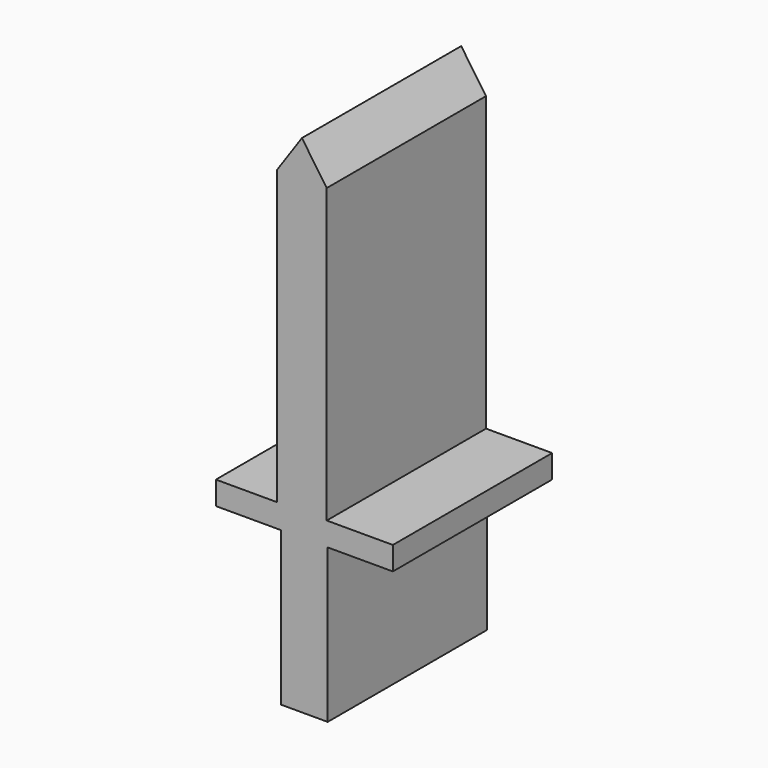
from build123d import *

# Parameters (mm, degrees)
F0_W     = 2.344617017
F0_H     = 7.7176926169
F0_H_2   = 0.5861528073
F1_DEPTH = 10


with BuildPart() as f1:
    # F0 (on Front) → F1 (new body)
    with BuildSketch(Plane.XZ):
        Polygon((0, 4.7380755195), (1.1234623608, 4.7380755195), (1.1234623608, 19.4407690205), (-0.1221147261, 21.2480772879), (-1.367691813, 19.4407690205), (-1.367691813, 4.7380755195), align=None)
        Polygon((1.1723085085, 4.1519227121), (1.1723085085, 3.5657699048), (4.4450012058, 3.5657699048), (4.4450012058, 4.7380755195), (1.1234623608, 4.7380755195), (0, 4.7380755195), (-1.367691813, 4.7380755195), (-4.4450012058, 4.7380755195), (-4.4450012058, 3.5657699048), (-1.1723085085, 3.5657699048), (-1.1723085085, 4.1519227121), align=None)
        with Locations((0, -0.2930764037)):
            Rectangle(F0_W, F0_H)
        with Locations((0, 3.8588463084)):
            Rectangle(F0_W, F0_H_2)
    extrude(amount=F1_DEPTH)


solid = f1.part
